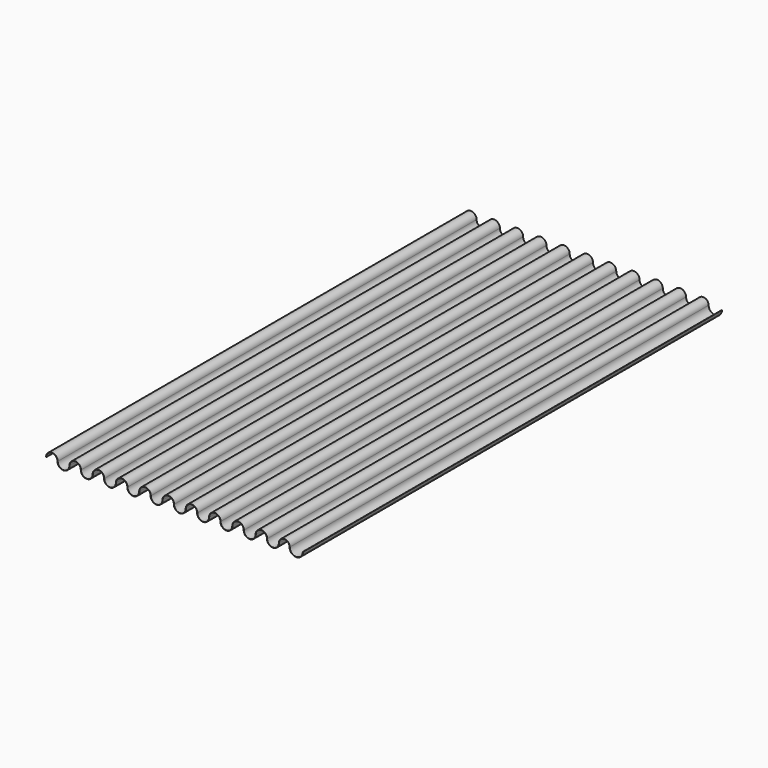
from build123d import *

# Parameters (mm, degrees)
F1_DEPTH = 4500


with BuildPart() as f1:
    # F0 (on Front) → F1 (new body)
    with BuildSketch(Plane.XZ):
        with BuildLine():
            ThreePointArc((150, 0), (100, -50), (50, 0))
            ThreePointArc((50, 0), (0, 50), (-50, 0))
            Line((-50, 0), (-48, 0))
            ThreePointArc((-48, 0), (0, 48), (48, 0))
            ThreePointArc((48, 0), (100, -52), (152, 0))
            ThreePointArc((152, 0), (200, 48), (248, 0))
            ThreePointArc((248, 0), (300, -52), (352, 0))
            ThreePointArc((352, 0), (400, 48), (448, 0))
            ThreePointArc((448, 0), (500, -52), (552, 0))
            ThreePointArc((552, 0), (600, 48), (648, 0))
            ThreePointArc((648, 0), (700, -52), (752, 0))
            ThreePointArc((752, 0), (800, 48), (848, 0))
            ThreePointArc((848, 0), (900, -52), (952, 0))
            ThreePointArc((952, 0), (1000, 48), (1048, 0))
            ThreePointArc((1048, 0), (1100, -52), (1152, 0))
            ThreePointArc((1152, 0), (1200, 48), (1248, 0))
            ThreePointArc((1248, 0), (1300, -52), (1352, 0))
            ThreePointArc((1352, 0), (1400, 48), (1448, 0))
            ThreePointArc((1448, 0), (1500, -52), (1552, 0))
            ThreePointArc((1552, 0), (1600, 48), (1648, 0))
            ThreePointArc((1648, 0), (1700, -52), (1752, 0))
            ThreePointArc((1752, 0), (1800, 48), (1848, 0))
            ThreePointArc((1848, 0), (1900, -52), (1952, 0))
            ThreePointArc((1952, 0), (1997, 45), (2042, 0))
            ThreePointArc((2042, 0), (2100, -58), (2158, 0))
            Line((2158, 0), (2156, 0))
            ThreePointArc((2156, 0), (2100, -56), (2044, 0))
            ThreePointArc((2044, 0), (1997, 47), (1950, 0))
            ThreePointArc((1950, 0), (1900, -50), (1850, 0))
            ThreePointArc((1850, 0), (1800, 50), (1750, 0))
            ThreePointArc((1750, 0), (1700, -50), (1650, 0))
            ThreePointArc((1650, 0), (1600, 50), (1550, 0))
            ThreePointArc((1550, 0), (1500, -50), (1450, 0))
            ThreePointArc((1450, 0), (1400, 50), (1350, 0))
            ThreePointArc((1350, 0), (1300, -50), (1250, 0))
            ThreePointArc((1250, 0), (1200, 50), (1150, 0))
            ThreePointArc((1150, 0), (1100, -50), (1050, 0))
            ThreePointArc((1050, 0), (1000, 50), (950, 0))
            ThreePointArc((950, 0), (900, -50), (850, 0))
            ThreePointArc((850, 0), (800, 50), (750, 0))
            ThreePointArc((750, 0), (700, -50), (650, 0))
            ThreePointArc((650, 0), (600, 50), (550, 0))
            ThreePointArc((550, 0), (500, -50), (450, 0))
            ThreePointArc((450, 0), (400, 50), (350, 0))
            ThreePointArc((350, 0), (300, -50), (250, 0))
            ThreePointArc((250, 0), (200, 50), (150, 0))
        make_face()
    extrude(amount=F1_DEPTH)


solid = f1.part
